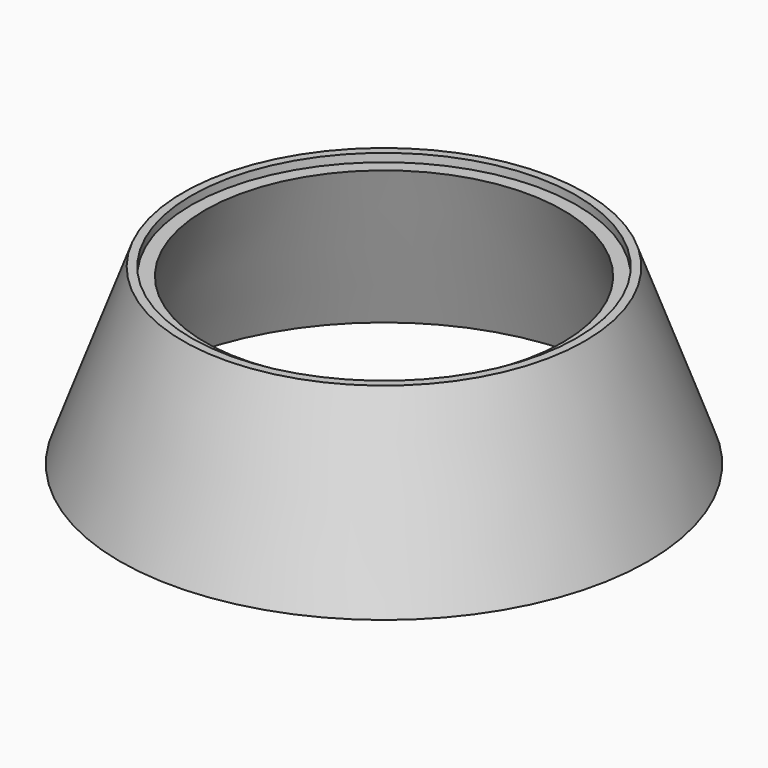
from build123d import *


with BuildPart() as part:
    # Sketch → Revolution (revolve)
    with BuildSketch(Plane.XZ):
        Polygon((65, 0), (70, 0), (70, 3), (73, 3), (95.930125, -60), (86.838214, -60), align=None)
    revolve(axis=Axis((0, 0, 0), (0, 0, 1)))


solid = part.part
